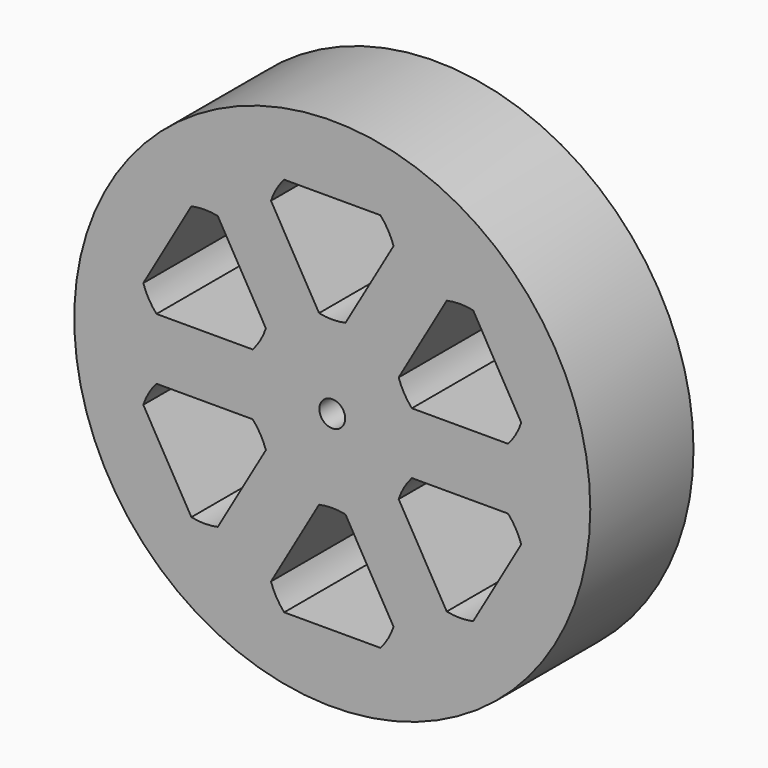
from build123d import *

# Parameters (mm, degrees)
F0_R     = 50
F0_R_2   = 2.5
F1_DEPTH = 25
F3_DEPTH = 25


with BuildPart() as f1:
    # F0 (on Front) → F1 (new body)
    with BuildSketch(Plane.XZ):
        Circle(F0_R)
        Circle(F0_R_2, mode=Mode.SUBTRACT)
    extrude(amount=F1_DEPTH)

    # F2 (on face) → F3 (cut)
    with BuildSketch(Plane.XZ.offset(25)):
        with BuildLine():
            Line((2.5584034117, 16.3360466002), (11.875353318, 32.4734772094))
            ThreePointArc((11.875353318, 32.4734772094), (10.8253175473, 34.8214285714), (9.3169499062, 36.9047619048))
            Line((9.3169499062, 36.9047619048), (-9.3169499062, 36.9047619048))
            ThreePointArc((-9.3169499062, 36.9047619048), (-10.8253175473, 34.8214285714), (-11.875353318, 32.4734772094))
            Line((-11.875353318, 32.4734772094), (-2.5584034117, 16.3360466002))
            ThreePointArc((-2.5584034117, 16.3360466002), (0, 16.0714285714), (2.5584034117, 16.3360466002))
        make_face()
        with BuildLine():
            Line((36.6189362833, 10.3836656478), (27.301986377, 26.521096257))
            ThreePointArc((27.301986377, 26.521096257), (24.7435829653, 26.7857142857), (22.1851795535, 26.521096257))
            Line((22.1851795535, 26.521096257), (12.8682296473, 10.3836656478))
            ThreePointArc((12.8682296473, 10.3836656478), (13.918265418, 8.0357142857), (15.426633059, 5.9523809524))
            Line((15.426633059, 5.9523809524), (34.0605328715, 5.9523809524))
            ThreePointArc((34.0605328715, 5.9523809524), (35.5689005126, 8.0357142857), (36.6189362833, 10.3836656478))
        make_face()
        with BuildLine():
            Line((-27.301986377, 26.521096257), (-36.6189362833, 10.3836656478))
            ThreePointArc((-36.6189362833, 10.3836656478), (-35.5689005126, 8.0357142857), (-34.0605328715, 5.9523809524))
            Line((-34.0605328715, 5.9523809524), (-15.426633059, 5.9523809524))
            ThreePointArc((-15.426633059, 5.9523809524), (-13.918265418, 8.0357142857), (-12.8682296473, 10.3836656478))
            Line((-12.8682296473, 10.3836656478), (-22.1851795535, 26.521096257))
            ThreePointArc((-22.1851795535, 26.521096257), (-24.7435829653, 26.7857142857), (-27.301986377, 26.521096257))
        make_face()
        with BuildLine():
            Line((-22.1851795535, -26.521096257), (-12.8682296473, -10.3836656478))
            ThreePointArc((-12.8682296473, -10.3836656478), (-13.918265418, -8.0357142857), (-15.426633059, -5.9523809524))
            Line((-15.426633059, -5.9523809524), (-34.0605328715, -5.9523809524))
            ThreePointArc((-34.0605328715, -5.9523809524), (-35.5689005126, -8.0357142857), (-36.6189362833, -10.3836656478))
            Line((-36.6189362833, -10.3836656478), (-27.301986377, -26.521096257))
            ThreePointArc((-27.301986377, -26.521096257), (-24.7435829653, -26.7857142857), (-22.1851795535, -26.521096257))
        make_face()
        with BuildLine():
            Line((-9.3169499062, -36.9047619048), (9.3169499062, -36.9047619048))
            ThreePointArc((9.3169499062, -36.9047619048), (10.8253175473, -34.8214285714), (11.875353318, -32.4734772094))
            Line((11.875353318, -32.4734772094), (2.5584034117, -16.3360466002))
            ThreePointArc((2.5584034117, -16.3360466002), (0, -16.0714285714), (-2.5584034117, -16.3360466002))
            Line((-2.5584034117, -16.3360466002), (-11.875353318, -32.4734772094))
            ThreePointArc((-11.875353318, -32.4734772094), (-10.8253175473, -34.8214285714), (-9.3169499062, -36.9047619048))
        make_face()
        with BuildLine():
            Line((34.0605328715, -5.9523809524), (15.426633059, -5.9523809524))
            ThreePointArc((15.426633059, -5.9523809524), (13.918265418, -8.0357142857), (12.8682296473, -10.3836656478))
            Line((12.8682296473, -10.3836656478), (22.1851795535, -26.521096257))
            ThreePointArc((22.1851795535, -26.521096257), (24.7435829653, -26.7857142857), (27.301986377, -26.521096257))
            Line((27.301986377, -26.521096257), (36.6189362833, -10.3836656478))
            ThreePointArc((36.6189362833, -10.3836656478), (35.5689005126, -8.0357142857), (34.0605328715, -5.9523809524))
        make_face()
    extrude(amount=-F3_DEPTH, mode=Mode.SUBTRACT)


solid = f1.part
